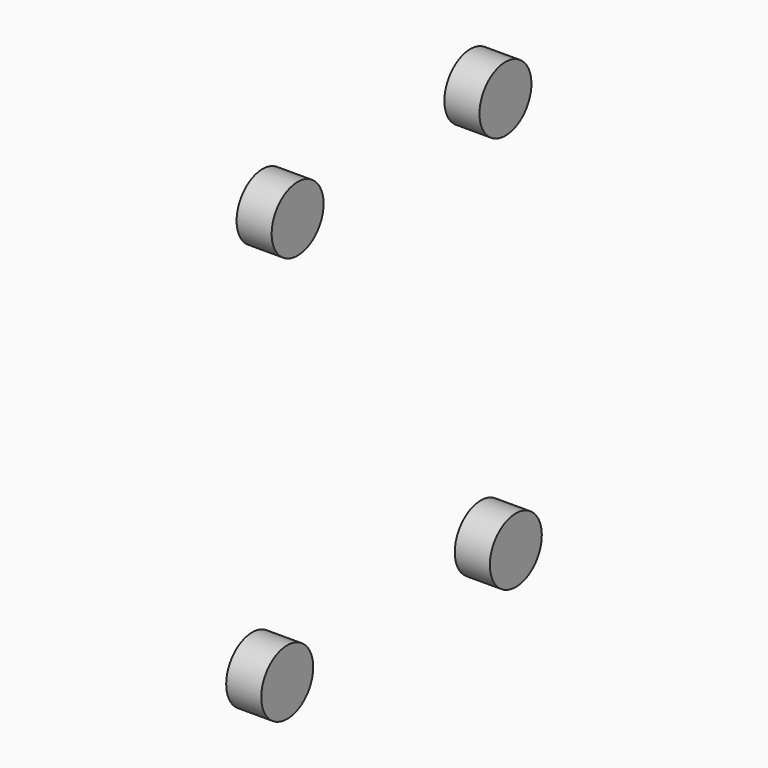
from build123d import *

# Parameters (mm, degrees)
CYLINDER101_R           = 2.5
CYLINDER101_DEPTH       = 2.7
CYLINDER101_PITCH_ANGLE = 90
CYLINDER100_R           = 2.5
CYLINDER100_DEPTH       = 2.7
CYLINDER100_PITCH_ANGLE = 90
CYLINDER102_R           = 2.5
CYLINDER102_DEPTH       = 2.7
CYLINDER102_PITCH_ANGLE = 90
CYLINDER099_R           = 2.5
CYLINDER099_DEPTH       = 2.7
CYLINDER099_PITCH_ANGLE = 90


with BuildPart() as cylinder101:
    # Cylinder101 → Cylinder101 (new body)
    with BuildSketch(Plane.XY):
        Circle(CYLINDER101_R)
    extrude(amount=CYLINDER101_DEPTH)


with BuildPart() as cylinder101_1:
    # Cylinder101 pitch: moved
    add(cylinder101.part.rotate(Axis((0, 0, 0), (0, 1, 0)), CYLINDER101_PITCH_ANGLE))


with BuildPart() as cylinder101_2:
    # Cylinder101 placement: moved
    add(cylinder101_1.part.moved(Location((52.3, 26, 5))))


with BuildPart() as cylinder100:
    # Cylinder100 → Cylinder100 (new body)
    with BuildSketch(Plane.XY):
        Circle(CYLINDER100_R)
    extrude(amount=CYLINDER100_DEPTH)


with BuildPart() as cylinder100_1:
    # Cylinder100 pitch: moved
    add(cylinder100.part.rotate(Axis((0, 0, 0), (0, 1, 0)), CYLINDER100_PITCH_ANGLE))


with BuildPart() as cylinder100_2:
    # Cylinder100 placement: moved
    add(cylinder100_1.part.moved(Location((52.3, 25, 36))))


with BuildPart() as cylinder102:
    # Cylinder102 → Cylinder102 (new body)
    with BuildSketch(Plane.XY):
        Circle(CYLINDER102_R)
    extrude(amount=CYLINDER102_DEPTH)


with BuildPart() as cylinder102_1:
    # Cylinder102 pitch: moved
    add(cylinder102.part.rotate(Axis((0, 0, 0), (0, 1, 0)), CYLINDER102_PITCH_ANGLE))


with BuildPart() as cylinder102_2:
    # Cylinder102 placement: moved
    add(cylinder102_1.part.moved(Location((52.3, 4, 5))))


with BuildPart() as rear_part_support:
    # Cylinder099 → Cylinder099 (new body)
    with BuildSketch(Plane.XY):
        Circle(CYLINDER099_R)
    extrude(amount=CYLINDER099_DEPTH)


with BuildPart() as rear_part_support_1:
    # Cylinder099 pitch: moved
    add(rear_part_support.part.rotate(Axis((0, 0, 0), (0, 1, 0)), CYLINDER099_PITCH_ANGLE))


with BuildPart() as rear_part_support_2:
    # Cylinder099 placement: moved
    add(rear_part_support_1.part.moved(Location((52.3, 5, 36))))

    # Fusion053: union Cylinder101, Cylinder100, Cylinder102
    add(cylinder101_2.part)
    add(cylinder100_2.part)
    add(cylinder102_2.part)


solid = rear_part_support_2.part
